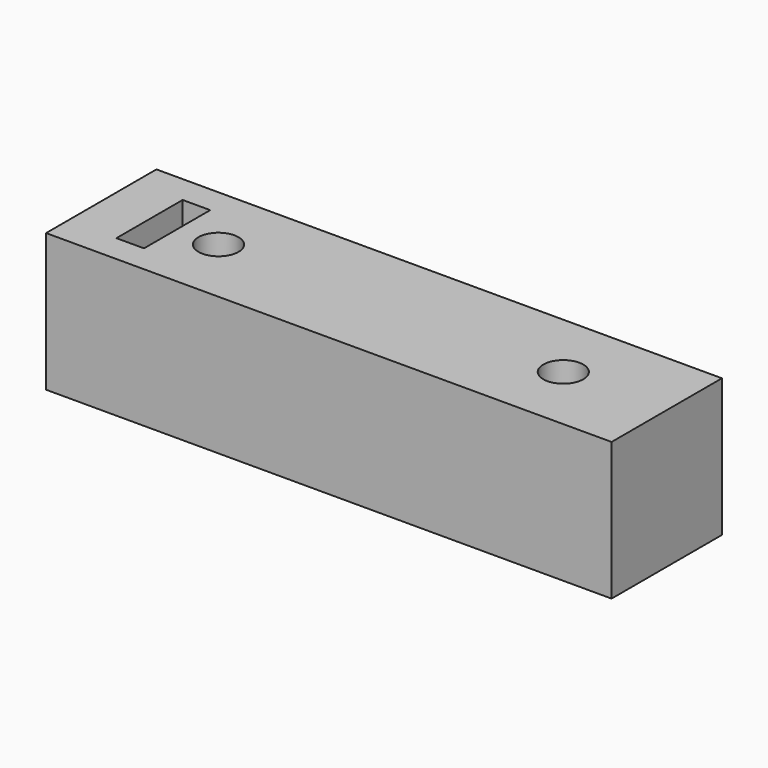
from build123d import *

# Parameters (mm, degrees)
SKETCH013_W     = 41
SKETCH013_H     = 10
SKETCH013_R     = 1.45
PAD009_DEPTH    = 5
SKETCH014_R     = 1.6
POCKET002_DEPTH = 7
SKETCH015_W     = 2
SKETCH015_H     = 6
POCKET003_DEPTH = 8


with BuildPart() as part:
    # Sketch013 → Pad009 (new body, symmetric)
    with BuildSketch(Plane.XY):
        with Locations((20.5, 0)):
            Rectangle(SKETCH013_W, SKETCH013_H)
        with Locations((33.5, 0)):
            Circle(SKETCH013_R, mode=Mode.SUBTRACT)
        with Locations((8.5, 0)):
            Circle(SKETCH013_R, mode=Mode.SUBTRACT)
    extrude(amount=PAD009_DEPTH, both=True)

    # Sketch014 → Pocket002 (cut)
    with BuildSketch(Plane.YZ):
        Circle(SKETCH014_R)
    extrude(amount=POCKET002_DEPTH, mode=Mode.SUBTRACT)

    # Sketch015 → Pocket003 (cut)
    with BuildSketch(Plane.XY.offset(5)):
        with Locations((4.5, 0)):
            Rectangle(SKETCH015_W, SKETCH015_H)
    extrude(amount=-POCKET003_DEPTH, mode=Mode.SUBTRACT)


solid = part.part
